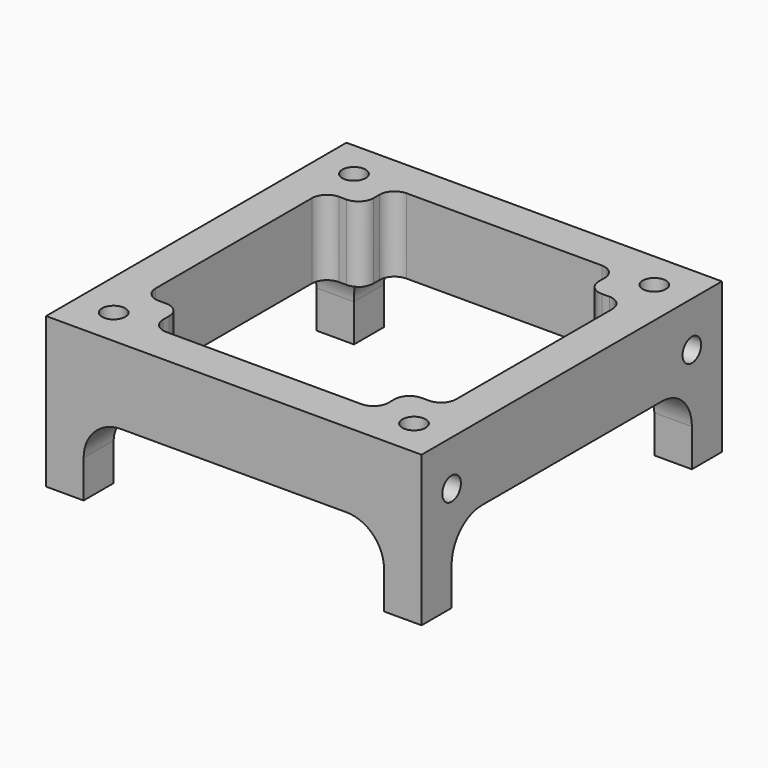
from build123d import *

# Parameters (mm, degrees)
SKETCH114_W             = 50
SKETCH114_H             = 50
PAD019_DEPTH            = 20
POCKET096_DEPTH         = 20.001
POCKET097_DEPTH         = 50.001
POCKET098_DEPTH         = 50.001
SKETCH118_R             = 1.55
POCKET099_DEPTH         = 5
SKETCH119_R             = 1.55
POCKET100_DEPTH         = 3
SKETCH120_R             = 1.55
POCKET101_DEPTH         = 3
BODY020_PLACEMENT_ANGLE = 180


with BuildPart() as part:
    # Sketch114 → Pad019 (new body)
    with BuildSketch(Plane.XY):
        Rectangle(SKETCH114_W, SKETCH114_H)
    extrude(amount=PAD019_DEPTH)

    # Sketch115 (on Face6 of Pad019) → Pocket096 (cut, through all)
    with BuildSketch(Plane.XY.offset(20)):
        with BuildLine():
            Line((-18, 15), (-17, 15))
            ThreePointArc((-17, 15), (-15.585786, 15.585786), (-15, 17))
            Line((-15, 17), (-15, 18))
            ThreePointArc((-13, 20), (-14.414214, 19.414214), (-15, 18))
            Line((-13, 20), (13, 20))
            ThreePointArc((15, 18), (14.414214, 19.414214), (13, 20))
            Line((15, 18), (15, 17))
            ThreePointArc((15, 17), (15.585786, 15.585786), (17, 15))
            Line((17, 15), (18, 15))
            ThreePointArc((20, 13), (19.414214, 14.414214), (18, 15))
            Line((20, 13), (20, -13))
            ThreePointArc((18, -15), (19.414214, -14.414214), (20, -13))
            Line((18, -15), (17, -15))
            ThreePointArc((17, -15), (15.585786, -15.585786), (15, -17))
            Line((15, -17), (15, -18))
            ThreePointArc((13, -20), (14.414214, -19.414214), (15, -18))
            Line((13, -20), (-13, -20))
            ThreePointArc((-15, -18), (-14.414214, -19.414214), (-13, -20))
            Line((-15, -18), (-15, -17))
            ThreePointArc((-15, -17), (-15.585786, -15.585786), (-17, -15))
            Line((-17, -15), (-18, -15))
            ThreePointArc((-20, -13), (-19.414214, -14.414214), (-18, -15))
            Line((-20, -13), (-20, 13))
            ThreePointArc((-18, 15), (-19.414214, 14.414214), (-20, 13))
        make_face()
    extrude(amount=-POCKET096_DEPTH, mode=Mode.SUBTRACT)

    # Sketch116 (on Face3 of Pocket096) → Pocket097 (cut, through all)
    with BuildSketch(Plane.YZ.offset(25)):
        with BuildLine():
            Line((-15, 10), (15, 10))
            ThreePointArc((20, 5), (18.535534, 8.535534), (15, 10))
            Line((20, 5), (20, 0))
            Line((20, 0), (-20, 0))
            Line((-20, 0), (-20, 5))
            ThreePointArc((-15, 10), (-18.535534, 8.535534), (-20, 5))
        make_face()
    extrude(amount=-POCKET097_DEPTH, mode=Mode.SUBTRACT)

    # Sketch117 (on Face6 of Pocket096) → Pocket098 (cut, through all)
    with BuildSketch(Plane.XZ.offset(25)):
        with BuildLine():
            Line((-15, 10), (15, 10))
            ThreePointArc((20, 5), (18.535534, 8.535534), (15, 10))
            Line((20, 5), (20, 0))
            Line((20, 0), (-20, 0))
            Line((-20, 0), (-20, 5))
            ThreePointArc((-15, 10), (-18.535534, 8.535534), (-20, 5))
        make_face()
    extrude(amount=-POCKET098_DEPTH, mode=Mode.SUBTRACT)

    # Sketch118 → Pocket099 (cut)
    with BuildSketch(Plane.XY.offset(20)):
        with Locations((-20, 20)):
            Circle(SKETCH118_R)
        with Locations((20, 20)):
            Circle(SKETCH118_R)
        with Locations((20, -20)):
            Circle(SKETCH118_R)
        with Locations((-20, -20)):
            Circle(SKETCH118_R)
    extrude(amount=-POCKET099_DEPTH, mode=Mode.SUBTRACT)

    # Sketch119 (on Face27 of Pocket099) → Pocket100 (cut)
    with BuildSketch(Plane.XZ.offset(25)):
        with Locations((-20, 14)):
            Circle(SKETCH119_R)
        with Locations((20, 14)):
            Circle(SKETCH119_R)
    extrude(amount=-POCKET100_DEPTH, mode=Mode.SUBTRACT)

    # Sketch120 (on Face11 of Pocket100) → Pocket101 (cut)
    with BuildSketch(Plane(origin=(-25, 0, 0), x_dir=(0, -1, 0), z_dir=(-1, 0, 0))):
        with Locations((-20, 14)):
            Circle(SKETCH120_R)
        with Locations((20, 14)):
            Circle(SKETCH120_R)
    extrude(amount=-POCKET101_DEPTH, mode=Mode.SUBTRACT)


with BuildPart() as part_1:
    # Body020 placement: moved
    add(part.part.moved(Location((145, 145, 0))).rotate(Axis((145, 145, 0), (0, 0, 1)), BODY020_PLACEMENT_ANGLE))


solid = part_1.part
